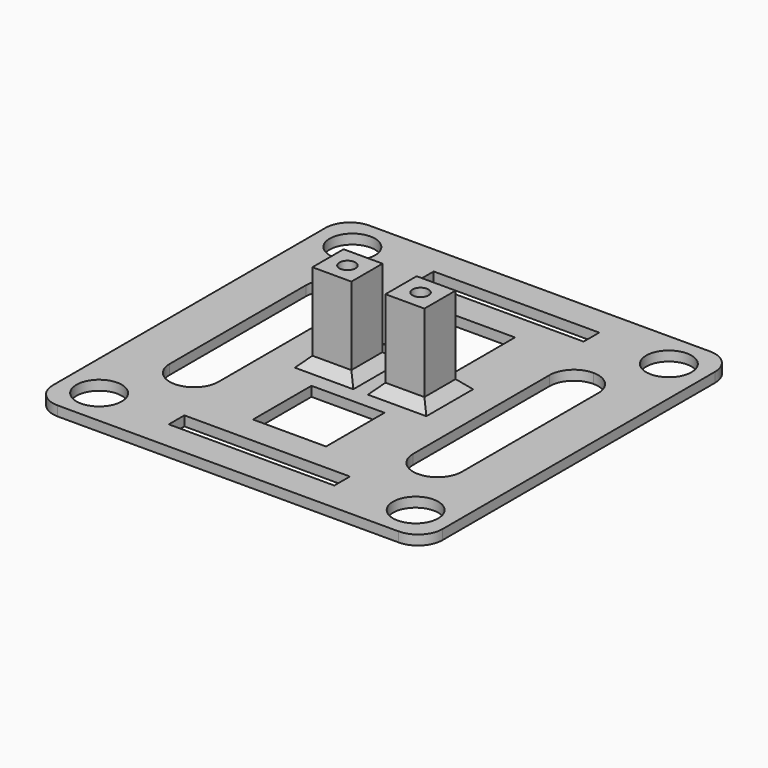
from build123d import *

# Parameters (mm, degrees)
F0_W     = 8
F0_H     = 8
F0_R     = 1.65
F1_DEPTH = 20
F0_W_2   = 80
F0_H_2   = 80
F0_R_2   = 4.65
F0_W_3   = 15
F0_H_3   = 15
F2_DEPTH = 2
F3_R     = 5
F4_SIZE  = 2
F5_SIZE  = 2
F6_SIZE  = 2
F7_SIZE  = 2
F8_W     = 34
F8_H     = 4
F9_DEPTH = 25


with BuildPart() as f1:
    # F0 (on Top) → F1 (new body)
    with BuildSketch(Plane.XY):
        with Locations((32.5, 40)):
            Rectangle(F0_W, F0_H)
        with Locations((32.5, 40)):
            Circle(F0_R, mode=Mode.SUBTRACT)
    extrude(amount=F1_DEPTH)



with BuildPart() as f1b:
    # F0 (on Top) → F1, piece 2 (new body)
    with BuildSketch(Plane.XY):
        with Locations((47.5, 40)):
            Rectangle(F0_W, F0_H)
        with Locations((47.5, 40)):
            Circle(F0_R, mode=Mode.SUBTRACT)
    extrude(amount=F1_DEPTH)


with BuildPart() as f1_1:
    add(f1.part)

    add(f1b.part)  # F2 merges F1b
    # F0 (on Top) → F2 (join)
    with BuildSketch(Plane.XY):
        with Locations((40, 40)):
            Rectangle(F0_W_2, F0_H_2)
        with Locations((7.5, 7.5)):
            Circle(F0_R_2, mode=Mode.SUBTRACT)
        with Locations((72.5, 7.5)):
            Circle(F0_R_2, mode=Mode.SUBTRACT)
        with Locations((40, 23.25)):
            Rectangle(F0_W_3, F0_H_3, mode=Mode.SUBTRACT)
        with Locations((32.5, 40)):
            Rectangle(F0_W, F0_H, mode=Mode.SUBTRACT)
        with Locations((7.5, 72.5)):
            Circle(F0_R_2, mode=Mode.SUBTRACT)
        with Locations((47.5, 40)):
            Rectangle(F0_W, F0_H, mode=Mode.SUBTRACT)
        with Locations((40, 56.75)):
            Rectangle(F0_W_3, F0_H_3, mode=Mode.SUBTRACT)
        with Locations((72.5, 72.5)):
            Circle(F0_R_2, mode=Mode.SUBTRACT)
    extrude(amount=F2_DEPTH)

    # F3
    f3_edges = [f1_1.edges().sort_by_distance(p)[0] for p in [
        (0, 80, 1),
        (80, 80, 1),
        (80, 0, 1),
        (0, 0, 1),
    ]]
    fillet(f3_edges, radius=F3_R)

    # F4
    f4_edges = [f1_1.edges().sort_by_distance(p)[0] for p in [
        (32.5, 44, 2),
        (47.5, 44, 2),
    ]]
    chamfer(f4_edges, length=F4_SIZE)

    # F5
    f5_edges = [f1_1.edges().sort_by_distance(p)[0] for p in [
        (32.5, 36, 2),
        (47.5, 36, 2),
    ]]
    chamfer(f5_edges, length=F5_SIZE)

    # F6
    f6_edges = [f1_1.edges().sort_by_distance(p)[0] for p in [
        (28.5, 40, 2),
        (36.5, 40, 2),
    ]]
    chamfer(f6_edges, length=F6_SIZE)

    # F7
    f7_edges = [f1_1.edges().sort_by_distance(p)[0] for p in [
        (51.5, 40, 2),
        (43.5, 40, 2),
    ]]
    chamfer(f7_edges, length=F7_SIZE)

    # F8 (on face) → F9 (cut)
    with BuildSketch(Plane.XY.offset(2)):
        with BuildLine():
            Line((20, 22.5), (20, 57.5))
            ThreePointArc((20, 57.5), (18.5355339059, 61.0355339059), (15, 62.5))
            ThreePointArc((15, 62.5), (11.4644660941, 61.0355339059), (10, 57.5))
            Line((10, 57.5), (10, 22.5))
            ThreePointArc((10, 22.5), (11.4644660941, 18.9644660941), (15, 17.5))
            ThreePointArc((15, 17.5), (18.5355339059, 18.9644660941), (20, 22.5))
        make_face()
        with BuildLine():
            ThreePointArc((65, 62.5), (61.4644660941, 61.0355339059), (60, 57.5))
            Line((60, 57.5), (60, 22.5))
            ThreePointArc((60, 22.5), (61.4644660941, 18.9644660941), (65, 17.5))
            ThreePointArc((65, 17.5), (68.5355339059, 18.9644660941), (70, 22.5))
            Line((70, 22.5), (70, 57.5))
            ThreePointArc((70, 57.5), (68.5355339059, 61.0355339059), (65, 62.5))
        make_face()
        with Locations((40, 72)):
            Rectangle(F8_W, F8_H)
        with Locations((40, 8)):
            Rectangle(F8_W, F8_H)
    extrude(amount=-F9_DEPTH, mode=Mode.SUBTRACT)


solid = f1_1.part
